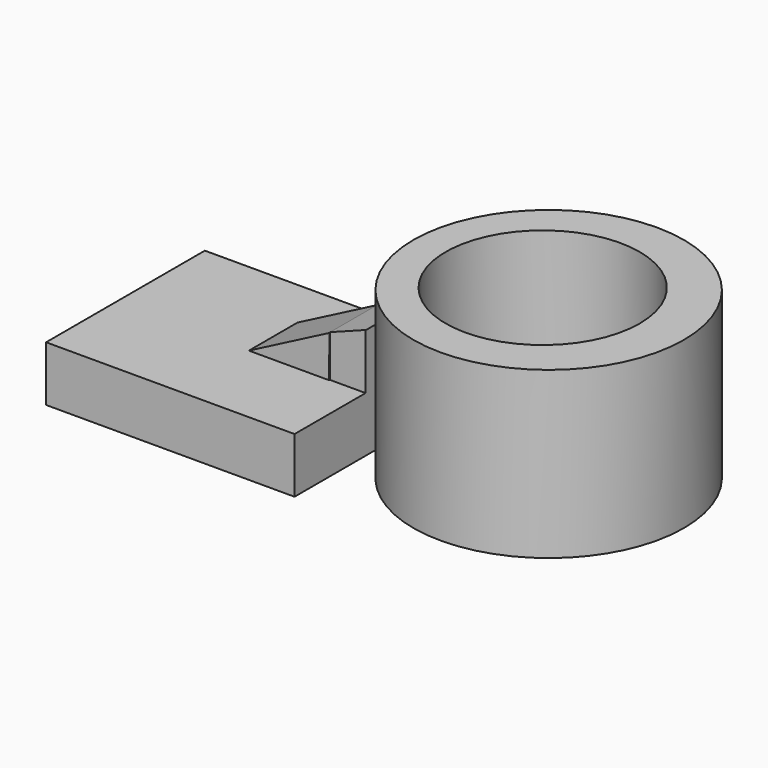
from build123d import *

# Parameters (mm, degrees)
F0_W      = 57.1397617459
F0_H      = 45.6380844116
F1_DEPTH  = 12.7
F2_R      = 31.1156512476
F3_DEPTH  = 38.1
F4_R      = 22.305124326
F5_DEPTH  = 25.4
F6_DEPTH  = 25.4
F7_W      = 33.5428267717
F7_H      = 13.7611404061
F8_DEPTH  = 25.4
F10_DEPTH = 101.6
F11_DEPTH = 25.4
F12_DEPTH = 25.4
F13_DEPTH = 25.4
F14_DEPTH = 25.4
F15_DEPTH = 25.4
F17_DEPTH = 13.97


with BuildPart() as f1:
    # F0 (on Top) → F1 (new body)
    with BuildSketch(Plane.XY):
        with Locations((-28.569880873, -11.3582089543)):
            Rectangle(F0_W, F0_H)
    extrude(amount=F1_DEPTH)

    # F2 (on Top) → F3 (join)
    with BuildSketch(Plane.XY):
        with Locations((31.0948286206, 0)):
            Circle(F2_R)
    extrude(amount=F3_DEPTH)

    # F4 (on Top) → F5 (cut)
    with BuildSketch(Plane.XY):
        with Locations((29.7256410122, 0)):
            Circle(F4_R)
    extrude(amount=F5_DEPTH, mode=Mode.SUBTRACT)

    # F6 (cut): a face of the model
    f6_faces = [f1.faces().sort_by_distance(p)[0] for p in [
        (29.7256410122, 0, 25.4),
    ]]
    extrude(f6_faces, amount=-F6_DEPTH, mode=Mode.SUBTRACT)

    # F7 (on Top) → F8 (join)
    with BuildSketch(Plane.XY):
        with Locations((-16.7714133859, -6.8805702031)):
            Rectangle(F7_W, F7_H)
    extrude(amount=F8_DEPTH)

    # F9 (on Front) → F10 (join)
    with BuildSketch(Plane.XZ):
        Polygon((-33.4813073277, 25.4684705287), (-33.4813073277, 12.7780623734), (0, 25.4684705287), align=None)
    extrude(amount=F10_DEPTH)

    # F11 (cut): a face of the model
    f11_faces = [f1.faces().sort_by_distance(p)[0] for p in [
        (-22.3208715518, -101.6, 21.2383344769),
    ]]
    extrude(f11_faces, amount=-F11_DEPTH, mode=Mode.SUBTRACT)

    # F12 (cut): a face of the model
    f12_faces = [f1.faces().sort_by_distance(p)[0] for p in [
        (-22.3208715518, -76.2, 21.2383344769),
    ]]
    extrude(f12_faces, amount=-F12_DEPTH, mode=Mode.SUBTRACT)

    # F13 (cut): a face of the model
    f13_faces = [f1.faces().sort_by_distance(p)[0] for p in [
        (-22.3208715518, -50.8, 21.2383344769),
    ]]
    extrude(f13_faces, amount=-F13_DEPTH, mode=Mode.SUBTRACT)

    # F14 (cut): a face of the model
    f14_faces = [f1.faces().sort_by_distance(p)[0] for p in [
        (-22.3208715518, -25.4, 21.2383344769),
    ]]
    extrude(f14_faces, amount=-F14_DEPTH, mode=Mode.SUBTRACT)

    # F15 (cut): a face of the model
    f15_faces = [f1.faces().sort_by_distance(p)[0] for p in [
        (-33.5428267717, -6.8805702031, 19.05),
    ]]
    extrude(f15_faces, amount=-F15_DEPTH, mode=Mode.SUBTRACT)


with BuildPart() as f17:
    # F16 (on Front) → F17 (new body)
    with BuildSketch(Plane.XZ):
        Polygon((-8.2127032802, 12.7046965063), (-8.1610009074, 22.3023127764), (-26.6642346978, 12.7046965063), align=None)
    extrude(amount=F17_DEPTH)


solid = Compound([f1.part, f17.part])
